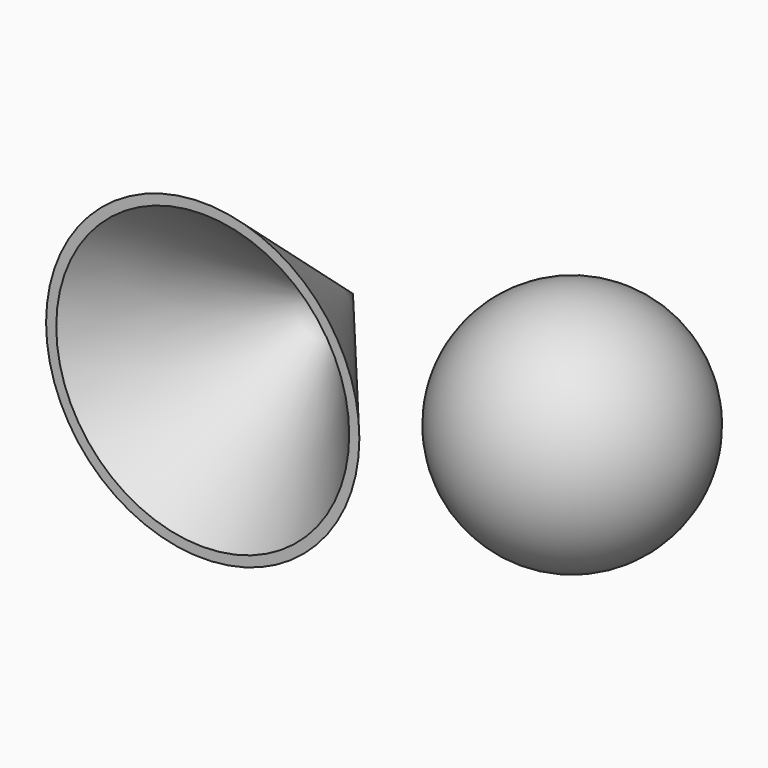
from build123d import *

# Parameters (mm, degrees)
F2_T = -2.54


with BuildPart() as f1:
    # F0 (on Top) → F1 (revolve)
    with BuildSketch(Plane.XY):
        Polygon((0, -12.7463145182), (-50.9852580726, 48.3745671809), (-50.9852580726, -12.7463145182), align=None)
    revolve(axis=Axis((-50.9852580726, 17.8141263314, 0), (0, -1, 0)))

    # F2
    f2_openings = [f1.faces().sort_by_distance(p)[0] for p in [
        (-50.985258, -12.746315, 0),
    ]]
    offset(amount=F2_T, openings=f2_openings)


with BuildPart() as f4:
    # F3 (on Top) → F4 (revolve)
    with BuildSketch(Plane.XY):
        with BuildLine():
            ThreePointArc((75.739291957, 26.7972852948), (37.639291957, 64.8972852948), (-0.460708043, 26.7972852948))
            Line((-0.460708043, 26.7972852948), (75.739291957, 26.7972852948))
        make_face()
    revolve(axis=Axis((37.639291957, 26.7972852948, 0), (1, 0, 0)))


solid = Compound([f1.part, f4.part])
